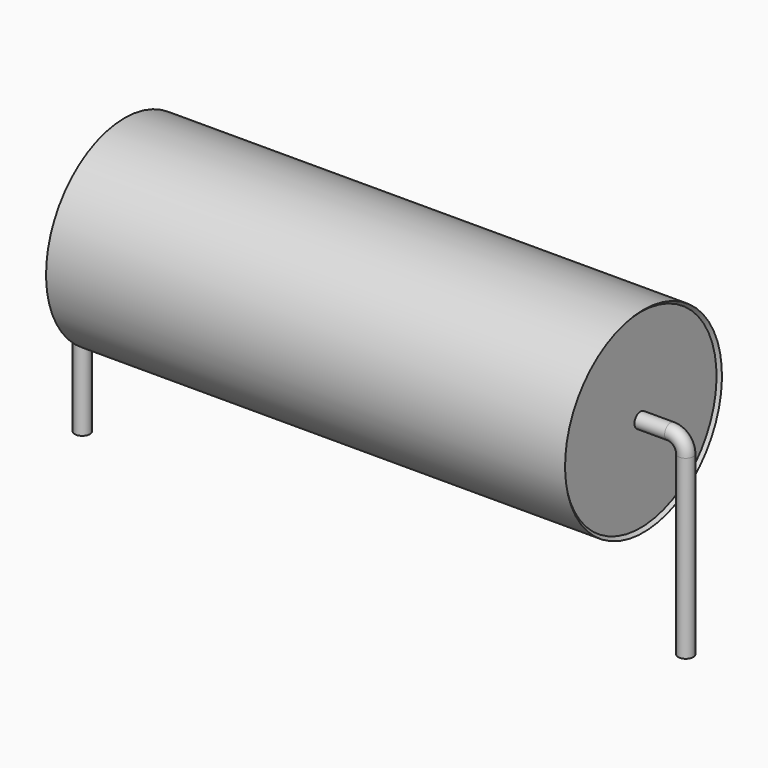
from build123d import *

# Parameters (mm, degrees)
SKETCH_R = 0.25


with BuildPart() as sweep_body:
    # Sweep: sweep along a path in Sketch001
    with BuildLine(Plane.XZ) as sweep_path:
        Line((0, -3), (0, 2.85))
        ThreePointArc((0, 2.85), (0.146449, 3.203556), (0.500007, 3.35))
        Line((0.500007, 3.35), (19.5, 3.35))
        ThreePointArc((19.5, 3.35), (19.853553, 3.203553), (20, 2.85))
        Line((20, 2.85), (20, -3))
    # Sketch → Sweep (sweep)
    with BuildSketch(Plane.XY.offset(-2)):
        Circle(SKETCH_R)
    sweep(path=sweep_path.line)


with BuildPart() as revolution:
    # Sketch002 → Revolution (revolve)
    with BuildSketch(Plane.XZ):
        Polygon((1.4, 6.6), (18.6, 6.6), (18.5, 6.5), (18.5, 3.35), (1.5, 3.35), (1.5, 6.5), align=None)
    revolve(axis=Axis((7.611803, 0, 3.35), (1, 0, 0)))


solid = Compound([sweep_body.part, revolution.part])
